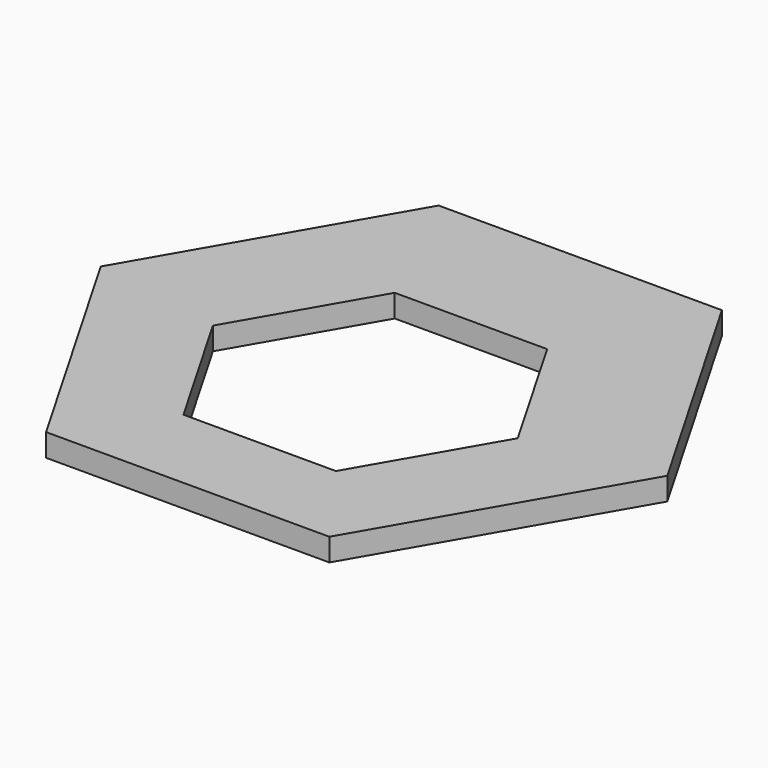
from build123d import *

# Parameters (mm, degrees)
F1_DEPTH = 6
F3_DEPTH = 6


with BuildPart() as f1:
    # F0 (on Top) → F1 (new body)
    with BuildSketch(Plane.XY):
        Polygon((75, 0), (37.5, 64.951905), (-37.5, 64.951905), (-75, 0), (-37.5, -64.951905), (37.5, -64.951905), align=None)
    extrude(amount=F1_DEPTH)

    # F2 (on face) → F3 (cut, through all)
    with BuildSketch(Plane.XY.offset(6)):
        Polygon((40.35898, -6.182247), (20.17949, 28.769655), (-20.17949, 28.769655), (-40.35898, -6.182247), (-20.17949, -41.134149), (20.17949, -41.134149), align=None)
    extrude(amount=-F3_DEPTH, mode=Mode.SUBTRACT)


solid = f1.part
